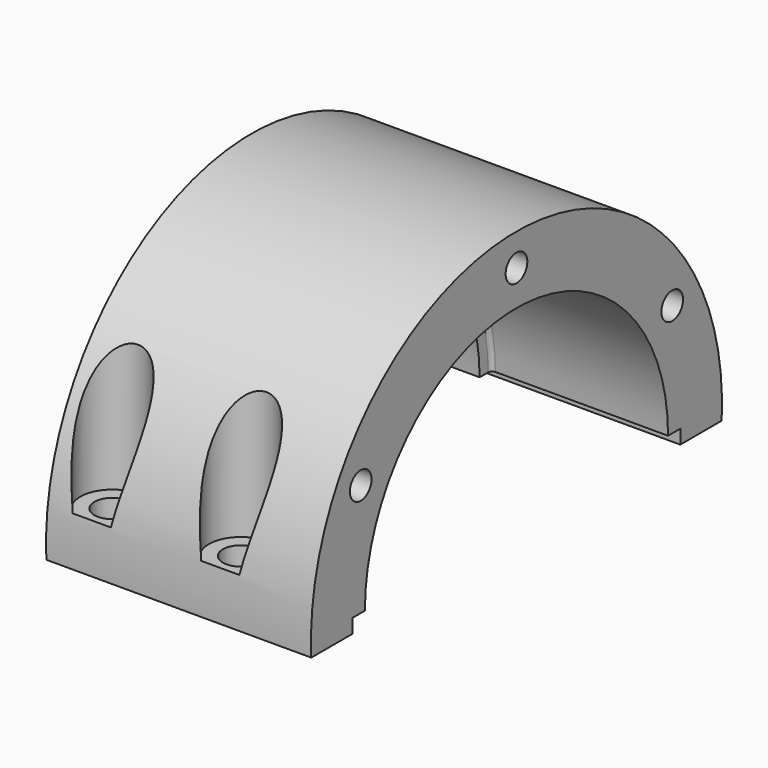
from build123d import *

# Parameters (mm, degrees)
F0_R      = 101.6
F0_R_2    = 44.45
F1_DEPTH  = 52.3875
F2_R      = 69.088
F3_DEPTH  = 92.075
F4_R      = 74.93
F5_DEPTH  = 69.85
F6_R      = 6.35
F7_R      = 1.5875
F9_D      = 10.71626
F9_DEPTH  = 25.3941384615
F9_TIP    = 3.2194893086
F10_W     = 294.4396436214
F10_H     = 108.7958868504
F11_DEPTH = 104.776
F12_W     = 161.925
F12_H     = 25.4
F13_DEPTH = 104.7760001
F15_D     = 14.2875
F17_R     = 12.7
F18_DEPTH = 88.1072501


with BuildPart() as f1:
    # F0 (on Right) → F1 (new body, symmetric)
    with BuildSketch(Plane.YZ):
        Circle(F0_R)
        Circle(F0_R_2, mode=Mode.SUBTRACT)
    extrude(amount=F1_DEPTH, both=True)

    # F2 (on face) → F3 (cut)
    with BuildSketch(Plane.YZ.offset(52.3875)):
        Circle(F2_R)
    extrude(amount=-F3_DEPTH, mode=Mode.SUBTRACT)

    # F4 (on face) → F5 (cut)
    with BuildSketch(Plane.YZ.offset(52.3875)):
        Circle(F4_R)
    extrude(amount=-F5_DEPTH, mode=Mode.SUBTRACT)

    # F6
    f6_edges = [f1.edges().sort_by_distance(p)[0] for p in [
        (-39.6875, -69.088, 0),
    ]]
    fillet(f6_edges, radius=F6_R)

    # F7
    f7_edges = [f1.edges().sort_by_distance(p)[0] for p in [
        (-17.4625, -74.93, 0),
    ]]
    fillet(f7_edges, radius=F7_R)

    # F9
    with Locations(Plane.YZ.offset(52.3875)):
        with Locations((-76.9896583964, 44.45), (0, 88.9), (76.9896583964, 44.45)):
            Hole(F9_D / 2, depth=F9_DEPTH)
            with Locations((0, 0, -(F9_DEPTH + F9_TIP / 2))):  # 118° drill point
                Cone(0, F9_D / 2, F9_TIP, mode=Mode.SUBTRACT)

    # F10 (on face) → F11 (cut, through all)
    with BuildSketch(Plane.YZ.offset(52.3875)):
        with Locations((-3.7660896778, -59.9541934252)):
            Rectangle(F10_W, F10_H)
    extrude(amount=-F11_DEPTH, mode=Mode.SUBTRACT)

    # F12 (on face) → F13 (cut, through all)
    with BuildSketch(Plane.YZ.offset(52.3875)):
        with Locations((0, -12.7)):
            Rectangle(F12_W, F12_H)
    extrude(amount=-F13_DEPTH, mode=Mode.SUBTRACT)

    # F15 (through all)
    with Locations(Plane(origin=(0, 0, -5.55625), x_dir=(1, 0, 0), z_dir=(0, 0, -1))):
        with Locations((15.8115, 90.4875), (-34.9885, 90.4875), (15.8115, -90.4875), (-34.9885, -90.4875)):
            Hole(F15_D / 2)

    # F17 (on offset) → F18 (cut, through all)
    with BuildSketch(Plane(origin=(0, 0, 13.49375), x_dir=(1, 0, 0), z_dir=(0, 0, -1))):
        with Locations((-34.9885, 90.4875)):
            Circle(F17_R)
        with Locations((15.8115, 90.4875)):
            Circle(F17_R)
        with Locations((-34.9885, -90.4875)):
            Circle(F17_R)
        with Locations((15.8115, -90.4875)):
            Circle(F17_R)
    extrude(amount=-F18_DEPTH, mode=Mode.SUBTRACT)


solid = f1.part
